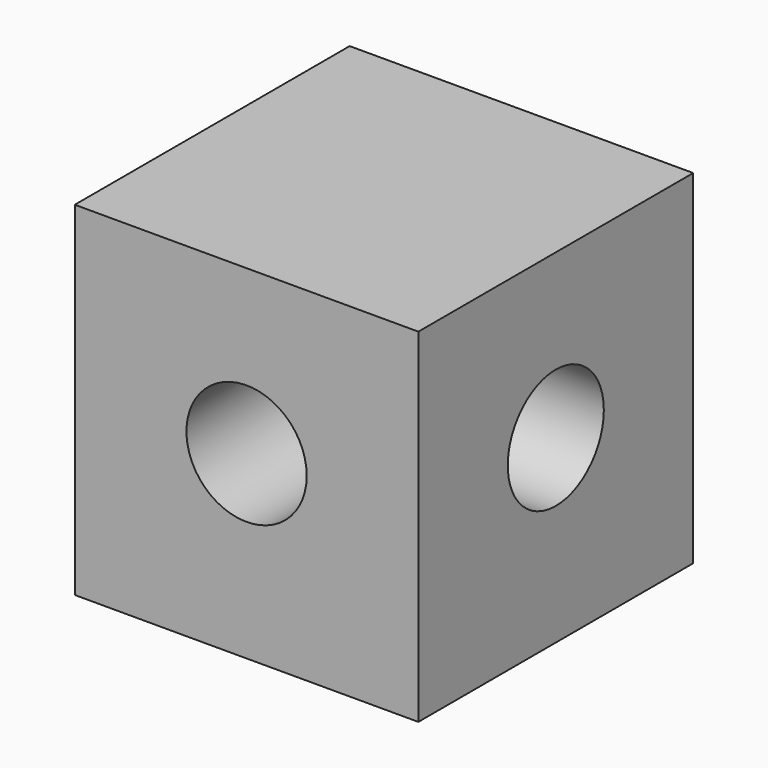
from build123d import *

# Parameters (mm, degrees)
F0_W          = 100
F0_H          = 100
F1_DEPTH      = 50
F2_R          = 17.5
F3_DEPTH      = 50
F3_DEPTH_BACK = 110
F4_R          = 17.4779300175
F1_FACE1_W    = 100
F1_FACE1_H    = 100
F5_DEPTH      = 100.001


with BuildPart() as f1:
    # F0 (on Front) → F1 (new body, symmetric)
    with BuildSketch(Plane.XZ):
        with Locations((0, -2.4868422188)):
            Rectangle(F0_W, F0_H)
    extrude(amount=F1_DEPTH, both=True)

    # F2 (on Front) → F3 (cut, two sides)
    with BuildSketch(Plane.XZ) as f3_sk:
        Circle(F2_R)
    extrude(amount=F3_DEPTH, mode=Mode.SUBTRACT)
    extrude(f3_sk.sketch, amount=-F3_DEPTH_BACK, mode=Mode.SUBTRACT)

    # F4 (on face) + F1_face1 (on face) → F5 (cut, through all)
    with BuildSketch(Plane.YZ.offset(50)):
        Circle(F4_R)
    with BuildSketch(Plane(origin=(-50, 0, -2.4868422188), x_dir=(0, -1, 0), z_dir=(-1, 0, 0))):
        Rectangle(F1_FACE1_W, F1_FACE1_H)
    extrude(amount=-F5_DEPTH, dir=(1, 0, 0), mode=Mode.SUBTRACT)


solid = f1.part
